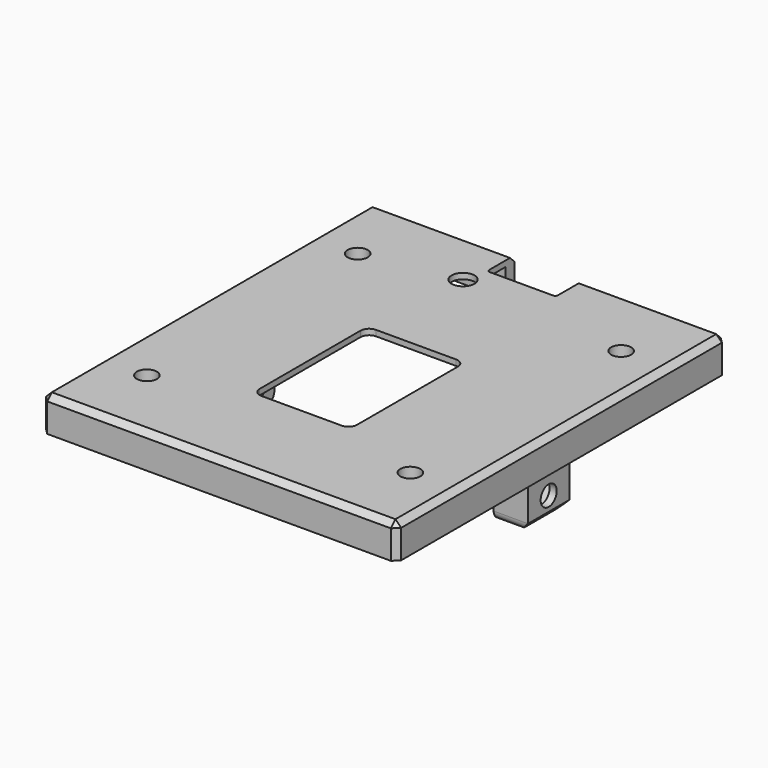
from build123d import *

# Parameters (mm, degrees)
CYLINDER021_R            = 2
CYLINDER021_DEPTH        = 15
BOX014_W                 = 4
BOX014_H                 = 9
BOX014_DEPTH             = 3
PRISM010_DEPTH           = 10
PRISM010_ROLL_ANGLE      = -90.000052
PRISM010_PITCH_ANGLE     = -59.999967
PRISM010_PLACEMENT_ANGLE = 90.000052
CYLINDER019_R            = 1.75
CYLINDER019_DEPTH        = 68
CYLINDER019_PITCH_ANGLE  = 90
BOX013_W                 = 6
BOX013_H                 = 9
BOX013_DEPTH             = 11
CHAMFER008_SIZE          = 1.5
FILLET009_R              = 1.5
BOX012_W                 = 12
BOX012_H                 = 16
BOX012_DEPTH             = 10
PAD021_DEPTH             = 35
CYLINDER005_R            = 1.75
CYLINDER005_DEPTH        = 50
CYLINDER007_R            = 1.75
CYLINDER007_DEPTH        = 50
CYLINDER006_R            = 1.75
CYLINDER006_DEPTH        = 50
CYLINDER004_R            = 1.75
CYLINDER004_DEPTH        = 50
PRISM004_DEPTH           = 10
PRISM005_DEPTH           = 10
PRISM006_DEPTH           = 10
PRISM007_DEPTH           = 10
SKETCH001_W              = 58
SKETCH001_H              = 68
PAD001_DEPTH             = 2
SKETCH002_W              = 33
SKETCH002_H              = 68
PAD002_DEPTH             = 6
BOX009_W                 = 62
BOX009_H                 = 72
BOX009_DEPTH             = 6
CHAMFER001_SIZE          = 1
FILLET010_R              = 0.5


with BuildPart() as cilindro017:
    # Cylinder021 → Cylinder021 (new body)
    with BuildSketch(Plane(origin=(-7, 26, 17), x_dir=(1, 0, 0), z_dir=(0, 0, 1))):
        Circle(CYLINDER021_R)
    extrude(amount=CYLINDER021_DEPTH)


with BuildPart() as cubo014:
    # Box014 → Box014 (new body)
    with BuildSketch(Plane(origin=(-29.75, -4.5, 23), x_dir=(1, 0, 0), z_dir=(0, 0, 1))):
        with Locations((2, 4.5)):
            Rectangle(BOX014_W, BOX014_H)
    extrude(amount=BOX014_DEPTH)


with BuildPart() as prisma010:
    # Prism010 → Prism010 (new body)
    with BuildSketch(Plane.XY):
        Polygon((3.25, 0), (1.625, 2.814583), (-1.625, 2.814583), (-3.25, 0), (-1.625, -2.814583), (1.625, -2.814583), align=None)
    extrude(amount=PRISM010_DEPTH)


with BuildPart() as prisma010_1:
    # Prism010 roll: moved
    add(prisma010.part.rotate(Axis((0, 0, 0), (1, 0, 0)), PRISM010_ROLL_ANGLE))


with BuildPart() as prisma010_2:
    # Prism010 pitch: moved
    add(prisma010_1.part.rotate(Axis((0, 0, 0), (0, 1, 0)), PRISM010_PITCH_ANGLE))


with BuildPart() as prisma010_3:
    # Prism010 placement: moved
    add(prisma010_2.part.moved(Location((-17.5, 0, 18))).rotate(Axis((-17.5, 0, 18), (0, 0, 1)), PRISM010_PLACEMENT_ANGLE))


with BuildPart() as cilindro016:
    # Cylinder019 → Cylinder019 (new body)
    with BuildSketch(Plane.XY):
        Circle(CYLINDER019_R)
    extrude(amount=CYLINDER019_DEPTH)


with BuildPart() as cilindro016_1:
    # Cylinder019 pitch: moved
    add(cilindro016.part.rotate(Axis((0, 0, 0), (0, 1, 0)), CYLINDER019_PITCH_ANGLE))


with BuildPart() as cilindro016_2:
    # Cylinder019 placement: moved
    add(cilindro016_1.part.moved(Location((-34, 0, 18))))


with BuildPart() as fusion016:
    # Box013 → Box013 (new body)
    with BuildSketch(Plane(origin=(-28.75, -4.5, 14), x_dir=(1, 0, 0), z_dir=(0, 0, 1))):
        with Locations((3, 4.5)):
            Rectangle(BOX013_W, BOX013_H)
    extrude(amount=BOX013_DEPTH)

    # Cut028: cut Cilindro016
    add(cilindro016_2.part, mode=Mode.SUBTRACT)

    # Chamfer008
    chamfer008_edges = [fusion016.edges().sort_by_distance(p)[0] for p in [
        (-28.75, 0, 14),
    ]]
    chamfer(chamfer008_edges, length=CHAMFER008_SIZE)

    # Fillet009
    fillet009_edges = [fusion016.edges().sort_by_distance(p)[0] for p in [
        (-25, -4.5, 14),
        (-25, 4.5, 14),
    ]]
    fillet(fillet009_edges, radius=FILLET009_R)

    # Cut029: cut Prisma010
    add(prisma010_3.part, mode=Mode.SUBTRACT)

    # Fusion016: union Cubo014
    add(cubo014.part)


with BuildPart() as part_mirroring032:
    # Part__Mirroring032: instance of Fusion016
    add(fusion016.part.mirror(Plane(origin=(0, 0, 0), x_dir=(0, -1, 0), z_dir=(1, 0, 0))))


with BuildPart() as fusion017:
    # Fusion017 base: copy of Fusion016
    add(fusion016.part)

    # Fusion017: union Part__Mirroring032
    add(part_mirroring032.part)


with BuildPart() as cubo012:
    # Box012 → Box012 (new body)
    with BuildSketch(Plane(origin=(-6, 30, 22), x_dir=(1, 0, 0), z_dir=(0, 0, 1))):
        with Locations((6, 8)):
            Rectangle(BOX012_W, BOX012_H)
    extrude(amount=BOX012_DEPTH)


with BuildPart() as pad021:
    # Sketch018 → Pad021 (new body)
    with BuildSketch(Plane.XY.offset(40)):
        with BuildLine():
            Line((-7, 7), (7, 7))
            ThreePointArc((8.5, 5.5), (8.06066, 6.56066), (7, 7))
            Line((8.5, 5.5), (8.5, -16.5))
            ThreePointArc((7, -18), (8.06066, -17.56066), (8.5, -16.5))
            Line((7, -18), (-7, -18))
            ThreePointArc((-8.5, -16.5), (-8.06066, -17.56066), (-7, -18))
            Line((-8.5, -16.5), (-8.5, 5.5))
            ThreePointArc((-7, 7), (-8.06066, 6.56066), (-8.5, 5.5))
        make_face()
    extrude(amount=-PAD021_DEPTH)


with BuildPart() as cilindro005:
    # Cylinder005 → Cylinder005 (new body)
    with BuildSketch(Plane(origin=(23, 23, -15), x_dir=(1, 0, 0), z_dir=(0, 0, 1))):
        Circle(CYLINDER005_R)
    extrude(amount=CYLINDER005_DEPTH)


with BuildPart() as cilindro007:
    # Cylinder007 → Cylinder007 (new body)
    with BuildSketch(Plane(origin=(23, -23, -15), x_dir=(1, 0, 0), z_dir=(0, 0, 1))):
        Circle(CYLINDER007_R)
    extrude(amount=CYLINDER007_DEPTH)


with BuildPart() as cilindro006:
    # Cylinder006 → Cylinder006 (new body)
    with BuildSketch(Plane(origin=(-23, -23, -15), x_dir=(1, 0, 0), z_dir=(0, 0, 1))):
        Circle(CYLINDER006_R)
    extrude(amount=CYLINDER006_DEPTH)


with BuildPart() as fusion002:
    # Cylinder004 → Cylinder004 (new body)
    with BuildSketch(Plane(origin=(-23, 23, -15), x_dir=(1, 0, 0), z_dir=(0, 0, 1))):
        Circle(CYLINDER004_R)
    extrude(amount=CYLINDER004_DEPTH)

    # Fusion002: union Cilindro005, Cilindro007, Cilindro006
    add(cilindro005.part)
    add(cilindro007.part)
    add(cilindro006.part)


with BuildPart() as prisma004:
    # Prism004 → Prism004 (new body)
    with BuildSketch(Plane(origin=(-23, 23, 0), x_dir=(1, 0, 0), z_dir=(0, 0, 1))):
        Polygon((3.1, 0), (1.55, 2.684679), (-1.55, 2.684679), (-3.1, 0), (-1.55, -2.684679), (1.55, -2.684679), align=None)
    extrude(amount=PRISM004_DEPTH)


with BuildPart() as prisma005:
    # Prism005 → Prism005 (new body)
    with BuildSketch(Plane(origin=(23, 23, 0), x_dir=(1, 0, 0), z_dir=(0, 0, 1))):
        Polygon((3.1, 0), (1.55, 2.684679), (-1.55, 2.684679), (-3.1, 0), (-1.55, -2.684679), (1.55, -2.684679), align=None)
    extrude(amount=PRISM005_DEPTH)


with BuildPart() as prisma006:
    # Prism006 → Prism006 (new body)
    with BuildSketch(Plane(origin=(-23, -23, 0), x_dir=(1, 0, 0), z_dir=(0, 0, 1))):
        Polygon((3.1, 0), (1.55, 2.684679), (-1.55, 2.684679), (-3.1, 0), (-1.55, -2.684679), (1.55, -2.684679), align=None)
    extrude(amount=PRISM006_DEPTH)


with BuildPart() as fusion004:
    # Prism007 → Prism007 (new body)
    with BuildSketch(Plane(origin=(23, -23, 0), x_dir=(1, 0, 0), z_dir=(0, 0, 1))):
        Polygon((3.1, 0), (1.55, 2.684679), (-1.55, 2.684679), (-3.1, 0), (-1.55, -2.684679), (1.55, -2.684679), align=None)
    extrude(amount=PRISM007_DEPTH)

    # Fusion004: union Prisma004, Prisma005, Prisma006
    add(prisma004.part)
    add(prisma005.part)
    add(prisma006.part)


with BuildPart() as fusion004_1:
    # Fusion004 placement: moved
    add(fusion004.part.moved(Location((0, 0, 17))))


with BuildPart() as pad001:
    # Sketch001 → Pad001 (new body)
    with BuildSketch(Plane(origin=(0, 0, 23), x_dir=(1, 0, 0), z_dir=(0, 0, -1))):
        Rectangle(SKETCH001_W, SKETCH001_H)
    extrude(amount=-PAD001_DEPTH)


with BuildPart() as fusion003:
    # Sketch002 → Pad002 (new body)
    with BuildSketch(Plane(origin=(0, 0, 23), x_dir=(1, 0, 0), z_dir=(0, 0, -1))):
        Rectangle(SKETCH002_W, SKETCH002_H)
    extrude(amount=-PAD002_DEPTH)

    # Fusion003: union Pad001
    add(pad001.part)


with BuildPart() as fusion003_1:
    # Fusion003 placement: moved
    add(fusion003.part.moved(Location((0, 0, -1))))


with BuildPart() as obj1:
    # Box009 → Box009 (new body)
    with BuildSketch(Plane(origin=(-31, -36, 23), x_dir=(1, 0, 0), z_dir=(0, 0, 1))):
        with Locations((31, 36)):
            Rectangle(BOX009_W, BOX009_H)
    extrude(amount=BOX009_DEPTH)

    # Chamfer001
    chamfer001_edges = [obj1.edges().sort_by_distance(p)[0] for p in [
        (-31, -36, 26),
        (-31, 0, 29),
        (-31, 36, 26),
        (31, -36, 26),
        (31, 0, 29),
        (31, 36, 26),
        (0, -36, 29),
        (0, 36, 29),
    ]]
    chamfer(chamfer001_edges, length=CHAMFER001_SIZE)

    # Cut004: cut Fusion003
    add(fusion003_1.part, mode=Mode.SUBTRACT)

    # Cut005: cut Fusion004
    add(fusion004_1.part, mode=Mode.SUBTRACT)

    # Cut006: cut Fusion002
    add(fusion002.part, mode=Mode.SUBTRACT)

    # Cut023: cut Pad021
    add(pad021.part, mode=Mode.SUBTRACT)

    # Cut027: cut Cubo012
    add(cubo012.part, mode=Mode.SUBTRACT)

    # Fusion018: union Fusion017
    add(fusion017.part)

    # Fillet010
    fillet010_edges = [obj1.edges().sort_by_distance(p)[0] for p in [
        (-6, 30, 28.5),
        (6, 30, 28.5),
        (-24.25, 4.5, 24),
        (-22.75, 0, 24),
        (-24.25, -4.5, 24),
        (28.875, -4.5, 24),
        (24.25, -4.5, 24),
        (22.75, 0, 24),
        (24.25, 4.5, 24),
    ]]
    fillet(fillet010_edges, radius=FILLET010_R)

    # Cut032: cut Cilindro017
    add(cilindro017.part, mode=Mode.SUBTRACT)


solid = obj1.part
